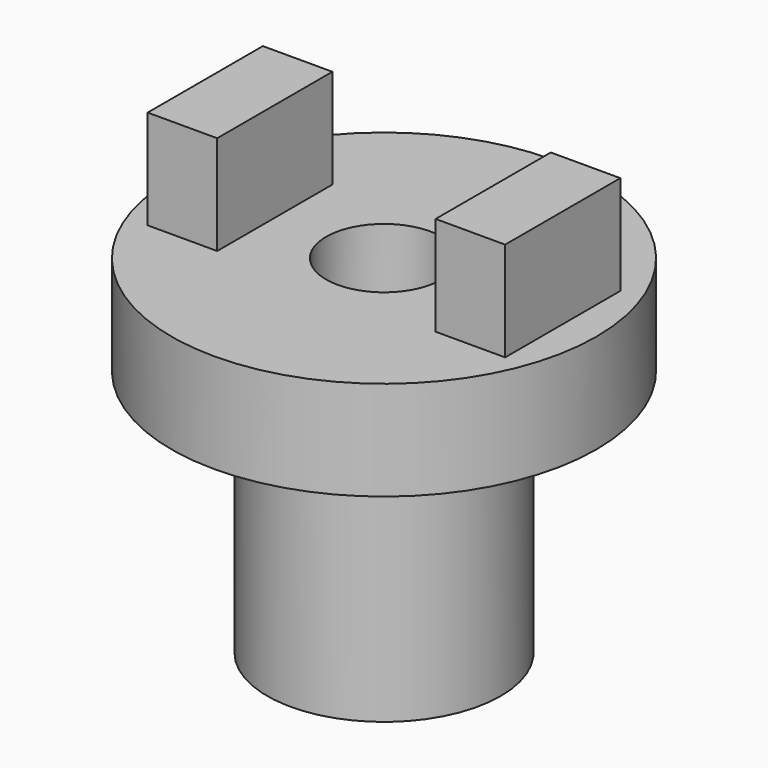
from build123d import *

# Parameters (mm, degrees)
SKETCH_R      = 23.521413
SKETCH_R_2    = 17.427543
PAD_DEPTH     = 50
SKETCH001_R   = 42.802844
SKETCH001_R_2 = 11.661281
PAD001_DEPTH  = 20
SKETCH002_W   = 14
SKETCH002_H   = 29
PAD002_DEPTH  = 20


with BuildPart() as part:
    # Sketch → Pad (new body)
    with BuildSketch(Plane.XY):
        Circle(SKETCH_R)
        Circle(SKETCH_R_2, mode=Mode.SUBTRACT)
    extrude(amount=PAD_DEPTH)

    # Sketch001 → Pad001 (new body)
    with BuildSketch(Plane.XY.offset(50)):
        Circle(SKETCH001_R)
        Circle(SKETCH001_R_2, mode=Mode.SUBTRACT)
    extrude(amount=PAD001_DEPTH)

    # Sketch002 → Pad002 (new body)
    with BuildSketch(Plane.XY.offset(70)):
        with Locations((-29, 0)):
            Rectangle(SKETCH002_W, SKETCH002_H)
        with Locations((29, 0)):
            Rectangle(SKETCH002_W, SKETCH002_H)
    extrude(amount=PAD002_DEPTH)


solid = part.part
